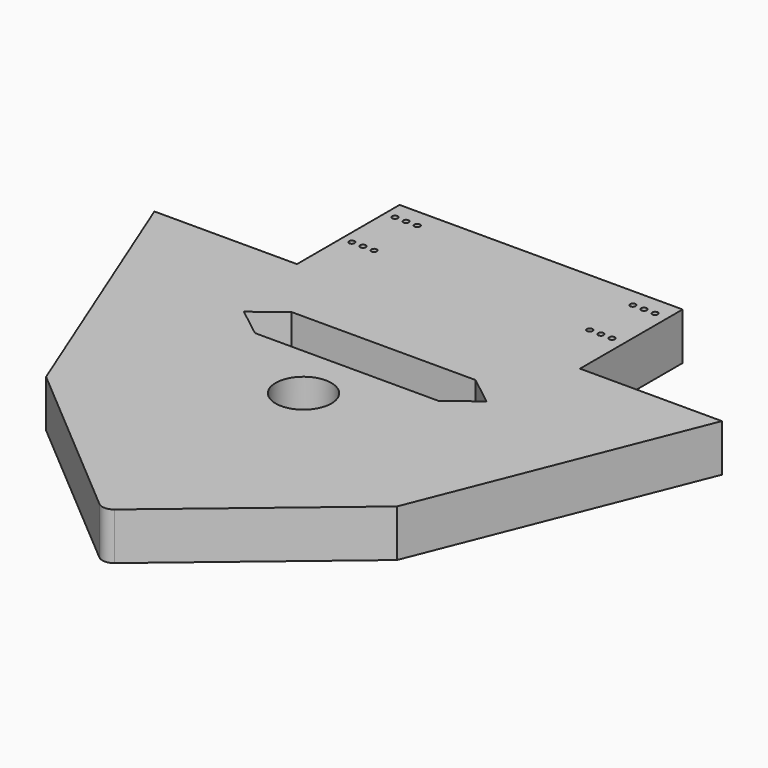
from build123d import *

# Parameters (mm, degrees)
F0_R     = 15
F0_R_2   = 1.5
F1_DEPTH = 25.4


with BuildPart() as f1:
    # F0 (on Top) → F1 (new body)
    with BuildSketch(Plane.XY):
        with BuildLine():
            Line((77.3958978424, 102.9117530549), (-74.8905959537, 102.9117530549))
            Line((-74.8905959537, 102.9117530549), (-74.8905959537, 33.9117530549))
            Line((-74.8905959537, 33.9117530549), (-93.1560286085, 25.7647309037))
            Line((-93.1560286085, 25.7647309037), (-93.1560286085, -111.9823026415))
            Line((-93.1560286085, -111.9823026415), (-3.4501732079, -188.27225021))
            ThreePointArc((-3.4501732079, -188.27225021), (0.6432284934, -189.7849664775), (4.7462730705, -188.2986040749))
            Line((4.7462730705, -188.2986040749), (95.6613304972, -111.9823026415))
            Line((95.6613304972, -111.9823026415), (95.6613304972, 25.7647309037))
            Line((95.6613304972, 25.7647309037), (77.3958978424, 33.9117530549))
            Line((77.3958978424, 33.9117530549), (77.3958978424, 102.9117530549))
        make_face()
        with Locations((0.6369164785, -56.0882469451)):
            Circle(F0_R, mode=Mode.SUBTRACT)
        Polygon((-49.4758075681, -26.1185521963), (-65.2628552972, -13.8397442737), (-49.4758075681, -1.5609363511), (49.5241924319, -1.5609363511), (65.311240161, -13.8397442737), (49.5241924319, -26.1185521963), align=None, mode=Mode.SUBTRACT)
        with Locations((-69.3630835215, 63.9117530549)):
            Circle(F0_R_2, mode=Mode.SUBTRACT)
        with Locations((-63.3630835215, 63.9117530549)):
            Circle(F0_R_2, mode=Mode.SUBTRACT)
        with Locations((-57.3630835215, 63.9117530549)):
            Circle(F0_R_2, mode=Mode.SUBTRACT)
        with Locations((-69.3630835215, 92.9117530549)):
            Circle(F0_R_2, mode=Mode.SUBTRACT)
        with Locations((-63.3630835215, 92.9117530549)):
            Circle(F0_R_2, mode=Mode.SUBTRACT)
        with Locations((-57.3630835215, 92.9117530549)):
            Circle(F0_R_2, mode=Mode.SUBTRACT)
        with Locations((58.6369164785, 63.9117530549)):
            Circle(F0_R_2, mode=Mode.SUBTRACT)
        with Locations((64.6369164785, 63.9117530549)):
            Circle(F0_R_2, mode=Mode.SUBTRACT)
        with Locations((70.6369164785, 63.9117530549)):
            Circle(F0_R_2, mode=Mode.SUBTRACT)
        with Locations((58.6369164785, 92.9117530549)):
            Circle(F0_R_2, mode=Mode.SUBTRACT)
        with Locations((64.6369164785, 92.9117530549)):
            Circle(F0_R_2, mode=Mode.SUBTRACT)
        with Locations((70.6369164785, 92.9117530549)):
            Circle(F0_R_2, mode=Mode.SUBTRACT)
        Polygon((-93.1560286085, 25.7647309037), (-74.8905959537, 33.9117530549), (-151.5982151031, 33.9117530549), (-93.1560286085, -111.9823026415), align=None)
        Polygon((153.7487208843, 33.9117530549), (77.3958978424, 33.9117530549), (95.6613304972, 25.7647309037), (95.6613304972, -111.9823026415), align=None)
    extrude(amount=F1_DEPTH)


solid = f1.part
